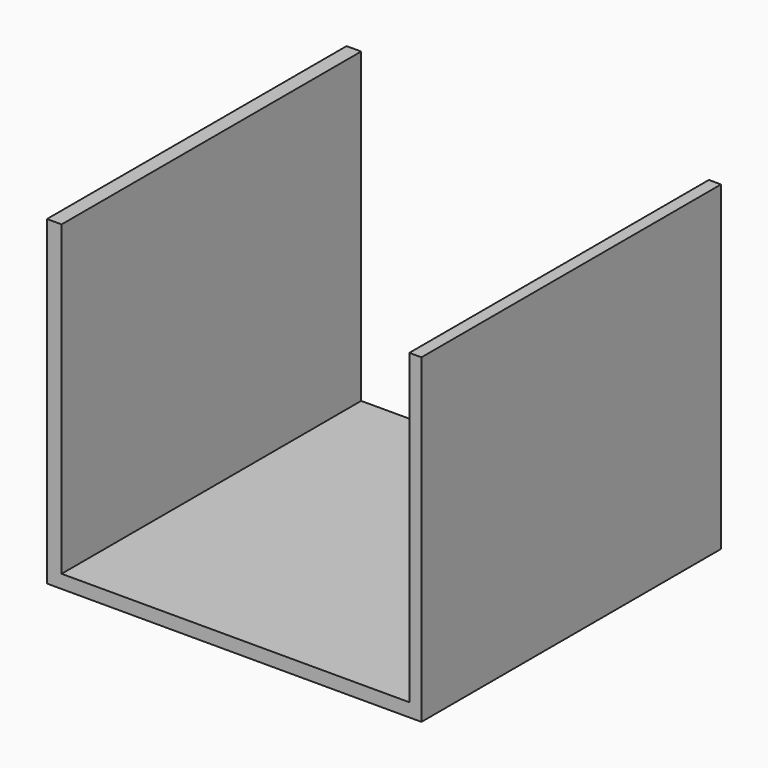
from build123d import *

# Parameters (mm, degrees)
F0_W     = 88.9
F0_H     = 76.2
F1_DEPTH = 44.45
F2_W     = 82.55
F2_H     = 73.025
F3_DEPTH = 44.45


with BuildPart() as f1:
    # F0 (on Front) → F1 (new body, symmetric)
    with BuildSketch(Plane.XZ):
        Rectangle(F0_W, F0_H)
    extrude(amount=F1_DEPTH, both=True)

    # F2 (on Front) → F3 (cut, symmetric)
    with BuildSketch(Plane.XZ):
        with Locations((0.2950895578, 1.5875)):
            Rectangle(F2_W, F2_H)
    extrude(amount=F3_DEPTH, both=True, mode=Mode.SUBTRACT)


solid = f1.part
